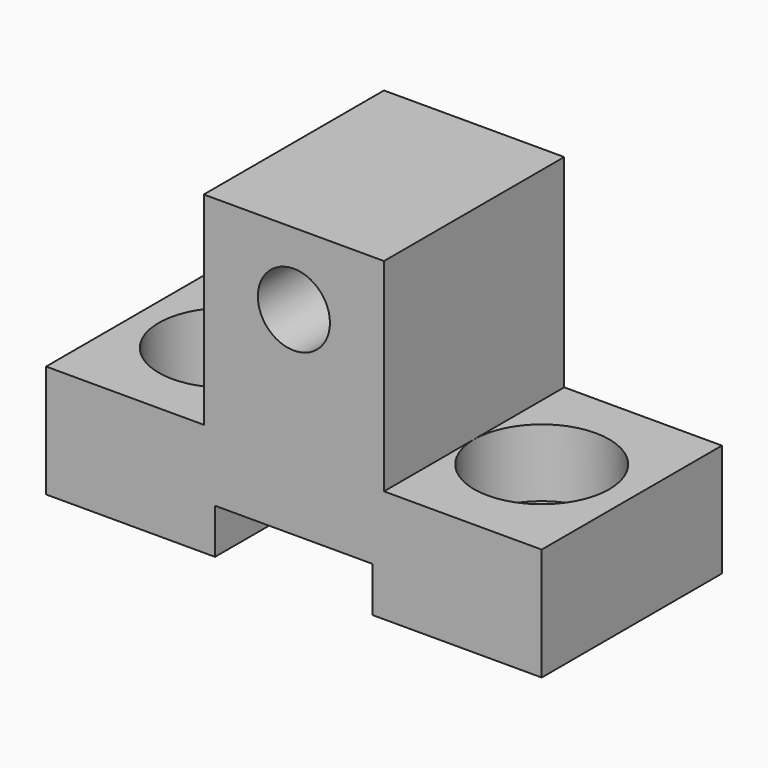
from build123d import *

# Parameters (mm, degrees)
SKETCH_R        = 1.6
PAD_DEPTH       = 5
SKETCH001_R     = 1.6
POCKET_DEPTH    = 5.001
SKETCH002_R     = 3
POCKET001_DEPTH = 3


with BuildPart() as part:
    # Sketch → Pad (new body, symmetric)
    with BuildSketch(Plane.XZ):
        Polygon((11, 5), (11, 0), (3.5, 0), (3.5, 2), (-3.5, 2), (-3.5, 0), (-11, 0), (-11, 5), (-4, 5), (-4, 14), (4, 14), (4, 5), align=None)
        with Locations((0, 10.8)):
            Circle(SKETCH_R, mode=Mode.SUBTRACT)
    extrude(amount=PAD_DEPTH, both=True)

    # Sketch001 (on DatumPlane) → Pocket (cut, through all)
    with BuildSketch(Plane.XY.offset(5)):
        with Locations((-7, 0)):
            Circle(SKETCH001_R)
        with Locations((7, 0)):
            Circle(SKETCH001_R)
    extrude(amount=-POCKET_DEPTH, mode=Mode.SUBTRACT)

    # Sketch002 (on DatumPlane) → Pocket001 (cut)
    with BuildSketch(Plane.XY.offset(5)):
        with Locations((-7, 0)):
            Circle(SKETCH002_R)
        with Locations((7, 0)):
            Circle(SKETCH002_R)
    extrude(amount=-POCKET001_DEPTH, mode=Mode.SUBTRACT)


solid = part.part
